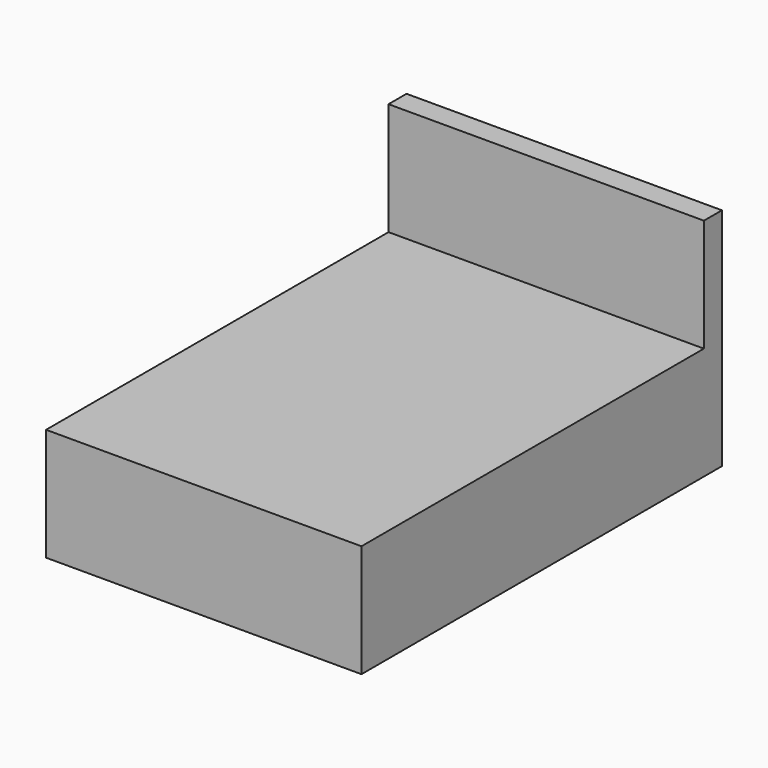
from build123d import *

# Parameters (mm, degrees)
F0_W     = 14
F0_H     = 20
F1_DEPTH = 5
F2_W     = 14
F2_H     = 1
F3_DEPTH = 10


with BuildPart() as f1:
    # F0 (on Top) → F1 (new body)
    with BuildSketch(Plane.XY):
        with Locations((7, -10)):
            Rectangle(F0_W, F0_H)
    extrude(amount=F1_DEPTH)

    # F2 (on Top) → F3 (join)
    with BuildSketch(Plane.XY):
        with Locations((7, -0.5)):
            Rectangle(F2_W, F2_H)
    extrude(amount=F3_DEPTH)


solid = f1.part
